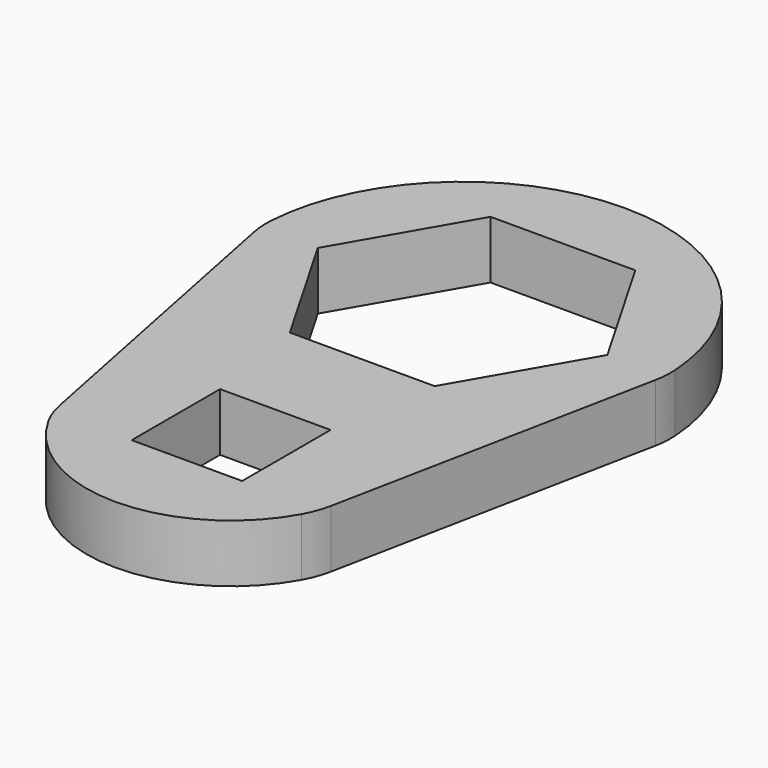
from build123d import *

# Parameters (mm, degrees)
SKETCH_W  = 19.1
SKETCH_H  = 19.1
PAD_DEPTH = 10
FILLET_R  = 15


with BuildPart() as part:
    # Sketch → Pad (new body)
    with BuildSketch(Plane.XY):
        with BuildLine():
            ThreePointArc((35, 0), (0, 35), (-35, 0))
            Line((-35, 0), (-23.104058, -59.55))
            ThreePointArc((-23.104058, -59.55), (0, -75), (23.104058, -59.55))
            Line((23.104058, -59.55), (35, 0))
        make_face()
        Polygon((-25.025, 0), (-12.5125, -21.672286), (12.5125, -21.672286), (25.025, 0), (12.5125, 21.672286), (-12.5125, 21.672286), align=None, mode=Mode.SUBTRACT)
        with Locations((0, -50)):
            Rectangle(SKETCH_W, SKETCH_H, mode=Mode.SUBTRACT)
    extrude(amount=PAD_DEPTH)

    # Fillet
    fillet_edges = [part.edges().sort_by_distance(p)[0] for p in [
        (-35, 0, 5),
        (-23.104058, -59.55, 5),
        (23.104058, -59.55, 5),
        (35, 0, 5),
    ]]
    fillet(fillet_edges, radius=FILLET_R)


solid = part.part
